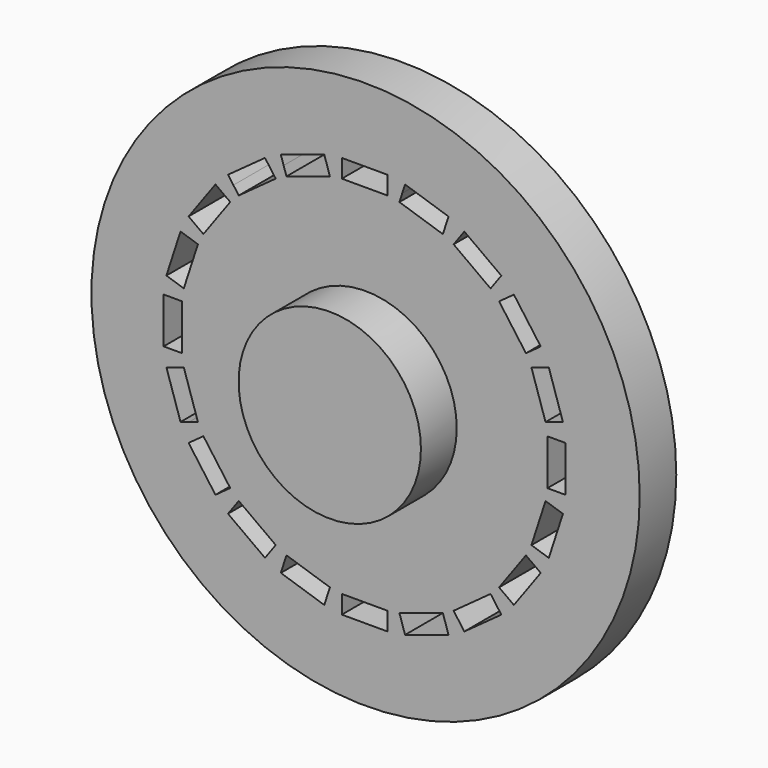
from build123d import *

# Parameters (mm, degrees)
F0_R     = 30
F1_DEPTH = 5
F3_DEPTH = 5.001
F4_R     = 9.975
F5_DEPTH = 4.9


with BuildPart() as f1:
    # F0 (on Front) → F1 (new body)
    with BuildSketch(Plane.XZ):
        Circle(F0_R)
    extrude(amount=F1_DEPTH)

    # F2 (on face) → F3 (cut, through all)
    with BuildSketch(Plane.XZ.offset(5)):
        Polygon((-2.601597, 21.949199), (-2.601597, 20.949199), (-2.601597, 19.949199), (2.398403, 19.949199), (2.398403, 21.949199), align=None)
        Polygon((-4.522329, 21.644985), (-9.277612, 20.0999), (-8.968595, 19.148844), (-8.659578, 18.197787), (-3.904295, 19.742872), align=None)
        Polygon((-11.01033, 19.217036), (-15.055415, 16.27811), (-14.467629, 15.469093), (-13.879844, 14.660076), (-9.834759, 17.599002), align=None)
        Polygon((-16.430507, 14.903017), (-19.369434, 10.857932), (-18.560417, 10.270147), (-17.7514, 9.682362), (-14.812473, 13.727447), align=None)
        Polygon((-20.252298, 9.125214), (-21.797383, 4.369932), (-20.846326, 4.060915), (-19.895269, 3.751898), (-18.350185, 8.50718), align=None)
        Polygon((-22.101597, 2.449199), (-22.101597, -2.550801), (-21.101597, -2.550801), (-20.101597, -2.550801), (-20.101597, 2.449199), align=None)
        Polygon((-21.797383, -4.471533), (-20.252298, -9.226816), (-19.301241, -8.917799), (-18.350185, -8.608782), (-19.895269, -3.853499), align=None)
        Polygon((-19.369434, -10.959534), (-16.430507, -15.004619), (-15.62149, -14.416833), (-14.812473, -13.829048), (-17.7514, -9.783963), align=None)
        Polygon((-15.055415, -16.379711), (-11.01033, -19.318638), (-10.422544, -18.509621), (-9.834759, -17.700604), (-13.879844, -14.761677), align=None)
        Polygon((-9.277612, -20.201502), (-4.522329, -21.746587), (-4.213312, -20.79553), (-3.904295, -19.844473), (-8.659578, -18.299389), align=None)
        Polygon((-2.601597, -22.050801), (2.398403, -22.050801), (2.398403, -21.050801), (2.398403, -20.050801), (-2.601597, -20.050801), align=None)
        Polygon((4.319136, -21.746587), (9.074419, -20.201502), (8.765402, -19.250445), (8.456385, -18.299389), (3.701102, -19.844473), align=None)
        Polygon((10.807136, -19.318638), (14.852221, -16.379711), (14.264436, -15.570694), (13.676651, -14.761677), (9.631566, -17.700604), align=None)
        Polygon((16.227314, -15.004619), (19.16624, -10.959534), (18.357223, -10.371748), (17.548206, -9.783963), (14.60928, -13.829048), align=None)
        Polygon((20.049104, -9.226816), (21.594189, -4.471533), (20.643133, -4.162516), (19.692076, -3.853499), (18.146991, -8.608782), align=None)
        Polygon((21.898403, -2.550801), (21.898403, 2.449199), (20.898403, 2.449199), (19.898403, 2.449199), (19.898403, -2.550801), align=None)
        Polygon((21.594189, 4.369932), (20.049104, 9.125214), (19.098048, 8.816197), (18.146991, 8.50718), (19.692076, 3.751898), align=None)
        Polygon((19.16624, 10.857932), (16.227314, 14.903017), (15.418297, 14.315232), (14.60928, 13.727447), (17.548206, 9.682362), align=None)
        Polygon((14.852221, 16.27811), (10.807136, 19.217036), (10.219351, 18.408019), (9.631566, 17.599002), (13.676651, 14.660076), align=None)
        Polygon((9.074419, 20.0999), (4.319136, 21.644985), (4.010119, 20.693929), (3.701102, 19.742872), (8.456385, 18.197787), align=None)
    extrude(amount=-F3_DEPTH, mode=Mode.SUBTRACT)

    # F4 (on face) → F5 (join)
    with BuildSketch(Plane.XZ.offset(5)):
        Circle(F4_R)
    extrude(amount=F5_DEPTH)


solid = f1.part
